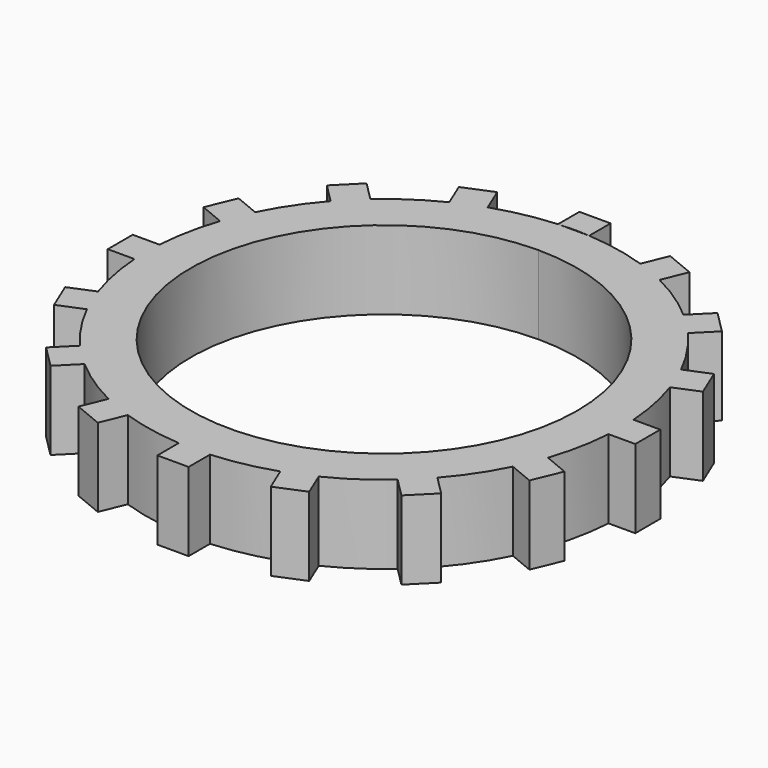
from build123d import *

# Parameters (mm, degrees)
F1_DEPTH = 25.4
F2_COUNT = 16
F3_DEPTH = 25.4


with BuildPart() as f1:
    # F0 (on Top) → F1 (new body)
    with BuildSketch(Plane.XY):
        with BuildLine():
            ThreePointArc((0, 76.793102), (2.52551, 76.751562), (5.048288, 76.626988))
            Line((5.048288, 76.626988), (5.048288, 85.281685))
            Line((5.048288, 85.281685), (0, 85.281685))
            Line((0, 85.281685), (-5.048288, 85.281685))
            Line((-5.048288, 85.281685), (-5.048288, 76.626988))
            ThreePointArc((-5.048288, 76.626988), (-2.52551, 76.751562), (0, 76.793102))
        make_face()
    extrude(amount=F1_DEPTH)



with BuildPart() as f2_1:
    # F2: instance of F1
    add(f1.part.rotate(Axis((0, 0, 0), (0, 0, -1)), 1 * 360 / F2_COUNT))


with BuildPart() as f2_2:
    # F2: instance of F1
    add(f1.part.rotate(Axis((0, 0, 0), (0, 0, -1)), 2 * 360 / F2_COUNT))


with BuildPart() as f2_3:
    # F2: instance of F1
    add(f1.part.rotate(Axis((0, 0, 0), (0, 0, -1)), 3 * 360 / F2_COUNT))


with BuildPart() as f2_4:
    # F2: instance of F1
    add(f1.part.rotate(Axis((0, 0, 0), (0, 0, -1)), 4 * 360 / F2_COUNT))


with BuildPart() as f2_5:
    # F2: instance of F1
    add(f1.part.rotate(Axis((0, 0, 0), (0, 0, -1)), 5 * 360 / F2_COUNT))


with BuildPart() as f2_6:
    # F2: instance of F1
    add(f1.part.rotate(Axis((0, 0, 0), (0, 0, -1)), 6 * 360 / F2_COUNT))


with BuildPart() as f2_7:
    # F2: instance of F1
    add(f1.part.rotate(Axis((0, 0, 0), (0, 0, -1)), 7 * 360 / F2_COUNT))


with BuildPart() as f2_8:
    # F2: instance of F1
    add(f1.part.rotate(Axis((0, 0, 0), (0, 0, -1)), 8 * 360 / F2_COUNT))


with BuildPart() as f2_9:
    # F2: instance of F1
    add(f1.part.rotate(Axis((0, 0, 0), (0, 0, -1)), 9 * 360 / F2_COUNT))


with BuildPart() as f2_10:
    # F2: instance of F1
    add(f1.part.rotate(Axis((0, 0, 0), (0, 0, -1)), 10 * 360 / F2_COUNT))


with BuildPart() as f2_11:
    # F2: instance of F1
    add(f1.part.rotate(Axis((0, 0, 0), (0, 0, -1)), 11 * 360 / F2_COUNT))


with BuildPart() as f2_12:
    # F2: instance of F1
    add(f1.part.rotate(Axis((0, 0, 0), (0, 0, -1)), 12 * 360 / F2_COUNT))


with BuildPart() as f2_13:
    # F2: instance of F1
    add(f1.part.rotate(Axis((0, 0, 0), (0, 0, -1)), 13 * 360 / F2_COUNT))


with BuildPart() as f2_14:
    # F2: instance of F1
    add(f1.part.rotate(Axis((0, 0, 0), (0, 0, -1)), 14 * 360 / F2_COUNT))


with BuildPart() as f2_15:
    # F2: instance of F1
    add(f1.part.rotate(Axis((0, 0, 0), (0, 0, -1)), 15 * 360 / F2_COUNT))


with BuildPart() as f1_1:
    add(f1.part)

    add(f2_1.part)  # F3 merges F2_1

    add(f2_2.part)  # F3 merges F2_2

    add(f2_3.part)  # F3 merges F2_3

    add(f2_4.part)  # F3 merges F2_4

    add(f2_5.part)  # F3 merges F2_5

    add(f2_6.part)  # F3 merges F2_6

    add(f2_7.part)  # F3 merges F2_7

    add(f2_8.part)  # F3 merges F2_8

    add(f2_9.part)  # F3 merges F2_9

    add(f2_10.part)  # F3 merges F2_10

    add(f2_11.part)  # F3 merges F2_11

    add(f2_12.part)  # F3 merges F2_12

    add(f2_13.part)  # F3 merges F2_13

    add(f2_14.part)  # F3 merges F2_14

    add(f2_15.part)  # F3 merges F2_15
    # F0 (on Top) → F3 (join)
    with BuildSketch(Plane.XY):
        with BuildLine():
            ThreePointArc((-5.048288, 76.626988), (-52.485745, -56.057356), (76.793102, 0))
            ThreePointArc((76.793102, 0), (56.057356, 52.485745), (5.048288, 76.626988))
            Line((5.048288, 76.626988), (0, 76.626988))
            Line((0, 76.626988), (-5.048288, 76.626988))
        make_face()
        with BuildLine():
            ThreePointArc((62.467949, 0), (-44.17151, -44.17151), (0, 62.467949))
            ThreePointArc((0, 62.467949), (44.17151, 44.17151), (62.467949, 0))
        make_face(mode=Mode.SUBTRACT)
    extrude(amount=F3_DEPTH)


solid = f1_1.part
